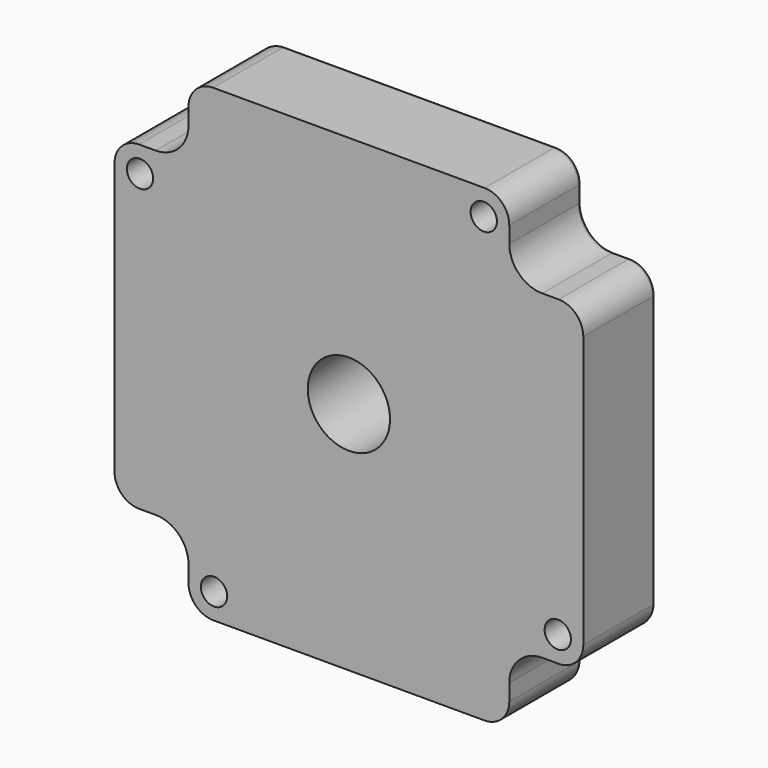
from build123d import *

# Parameters (mm, degrees)
SHAPEBINDER001_R = 1.6
PAD008_DEPTH     = 11
SKETCH014_R      = 5
POCKET007_DEPTH  = 42.001
FILLET002_R      = 0.5


with BuildPart() as part:
    # ShapeBinder001 → Pad008 (new body)
    with BuildSketch(Plane(origin=(0, 31, 0), x_dir=(1, 0, 0), z_dir=(0, 1, 0))):
        with BuildLine():
            Line((-16.5, -28.5), (16.5, -28.5))
            ThreePointArc((16.5, -28.5), (18.62132, -27.62132), (19.5, -25.5))
            Line((19.5, -25.5), (19.5, -23.5))
            ThreePointArc((19.5, -23.5), (20.671573, -20.671573), (23.5, -19.5))
            Line((23.5, -19.5), (25.5, -19.5))
            ThreePointArc((25.5, -19.5), (27.62132, -18.62132), (28.5, -16.5))
            Line((28.5, -16.5), (28.5, 16.5))
            ThreePointArc((28.5, 16.5), (27.62132, 18.62132), (25.5, 19.5))
            Line((25.5, 19.5), (23.5, 19.5))
            ThreePointArc((23.5, 19.5), (20.671573, 20.671573), (19.5, 23.5))
            Line((19.5, 23.5), (19.5, 25.5))
            ThreePointArc((19.5, 25.5), (18.62132, 27.62132), (16.5, 28.5))
            Line((16.5, 28.5), (-16.5, 28.5))
            ThreePointArc((-16.5, 28.5), (-18.62132, 27.62132), (-19.5, 25.5))
            Line((-19.5, 25.5), (-19.5, 23.5))
            ThreePointArc((-19.5, 23.5), (-20.671573, 20.671573), (-23.5, 19.5))
            Line((-23.5, 19.5), (-25.5, 19.5))
            ThreePointArc((-25.5, 19.5), (-27.62132, 18.62132), (-28.5, 16.5))
            Line((-28.5, 16.5), (-28.5, -16.5))
            ThreePointArc((-28.5, -16.5), (-27.62132, -18.62132), (-25.5, -19.5))
            Line((-25.5, -19.5), (-23.5, -19.5))
            ThreePointArc((-23.5, -19.5), (-20.671573, -20.671573), (-19.5, -23.5))
            Line((-19.5, -23.5), (-19.5, -25.5))
            ThreePointArc((-19.5, -25.5), (-18.62132, -27.62132), (-16.5, -28.5))
        make_face()
        with Locations((-16.4, 25.4)):
            Circle(SHAPEBINDER001_R, mode=Mode.SUBTRACT)
        with Locations((-25.4, -16.4)):
            Circle(SHAPEBINDER001_R, mode=Mode.SUBTRACT)
        with Locations((25.4, 16.4)):
            Circle(SHAPEBINDER001_R, mode=Mode.SUBTRACT)
        with Locations((16.4, -25.4)):
            Circle(SHAPEBINDER001_R, mode=Mode.SUBTRACT)
    extrude(amount=PAD008_DEPTH)

    # Sketch014 → Pocket007 (cut, through all)
    with BuildSketch(Plane.XZ):
        Circle(SKETCH014_R)
    extrude(amount=-POCKET007_DEPTH, mode=Mode.SUBTRACT)

    # Fillet002
    fillet002_edges = [part.edges().sort_by_distance(p)[0] for p in [
        (20.671573, 42, -20.671573),
        (25.4, 42, -14.8),
    ]]
    fillet(fillet002_edges, radius=FILLET002_R)


solid = part.part
